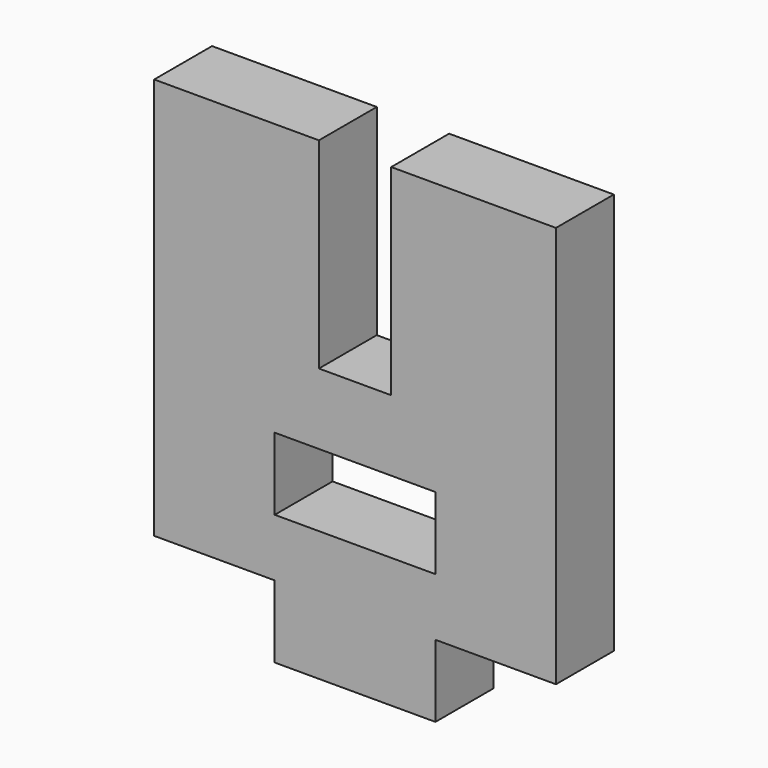
from build123d import *

# Parameters (mm, degrees)
F0_W     = 40
F0_H     = 18
F1_DEPTH = 18


with BuildPart() as f1:
    # F0 (on Front) → F1 (new body)
    with BuildSketch(Plane.XZ):
        Polygon((50, -50), (50, 50), (9, 50), (9, 0), (-9, 0), (-9, 50), (-50, 50), (-50, -50), (-20, -50), (-20, -68), (20, -68), (20, -50), align=None)
        with Locations((0, -26.625253)):
            Rectangle(F0_W, F0_H, mode=Mode.SUBTRACT)
    extrude(amount=F1_DEPTH)


solid = f1.part
